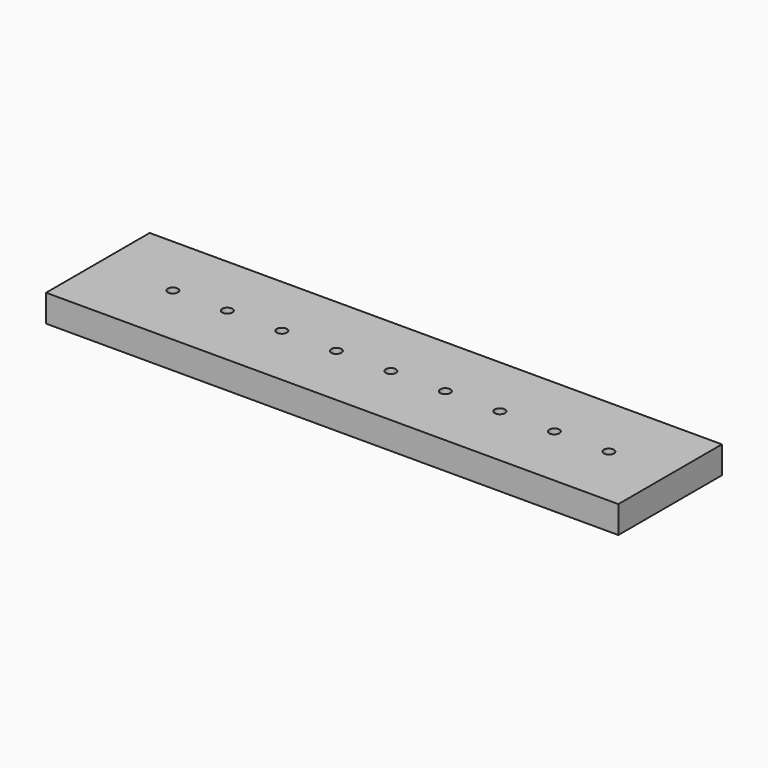
from build123d import *

# Parameters (mm, degrees)
F0_W     = 1066.8
F0_H     = 241.3
F0_R     = 9.525
F1_DEPTH = 50.8


with BuildPart() as f1:
    # F0 (on Top) → F1 (new body)
    with BuildSketch(Plane.XY):
        Rectangle(F0_W, F0_H)
        with Locations((-393.7, 0)):
            Circle(F0_R, mode=Mode.SUBTRACT)
        with Locations((-292.1, 0)):
            Circle(F0_R, mode=Mode.SUBTRACT)
        with Locations((-190.5, 0)):
            Circle(F0_R, mode=Mode.SUBTRACT)
        with Locations((-88.9, 0)):
            Circle(F0_R, mode=Mode.SUBTRACT)
        with Locations((12.7, 0)):
            Circle(F0_R, mode=Mode.SUBTRACT)
        with Locations((114.3, 0)):
            Circle(F0_R, mode=Mode.SUBTRACT)
        with Locations((215.9, 0)):
            Circle(F0_R, mode=Mode.SUBTRACT)
        with Locations((317.5, 0)):
            Circle(F0_R, mode=Mode.SUBTRACT)
        with Locations((419.1, 0)):
            Circle(F0_R, mode=Mode.SUBTRACT)
    extrude(amount=F1_DEPTH)


solid = f1.part
